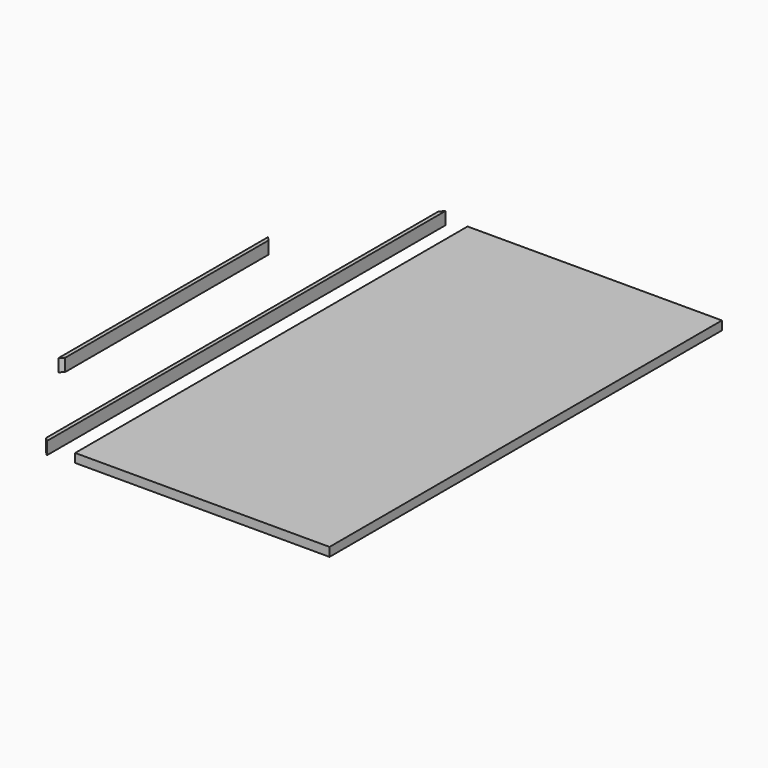
from build123d import *

# Parameters (mm, degrees)
F1_DEPTH = 40
F3_DEPTH = 40
F4_W     = 808
F4_H     = 1558
F5_DEPTH = 28


with BuildPart() as f1:
    # F0 (on Top) → F1 (new body)
    with BuildSketch(Plane.XY):
        Polygon((-140.437798, 407), (-140.437798, -425), (-128.437798, -413), (-128.437798, 395), align=None)
    extrude(amount=F1_DEPTH)


with BuildPart() as f3:
    # F2 (on Top) → F3 (new body)
    with BuildSketch(Plane.XY):
        Polygon((103.575772, -779), (115.575772, -791), (115.575772, 791), (103.575772, 779), align=None)
    extrude(amount=F3_DEPTH)


with BuildPart() as f5:
    # F4 (on Top) → F5 (new body)
    with BuildSketch(Plane.XY):
        with Locations((600, 0)):
            Rectangle(F4_W, F4_H)
    extrude(amount=F5_DEPTH)


solid = Compound([f1.part, f3.part, f5.part])
